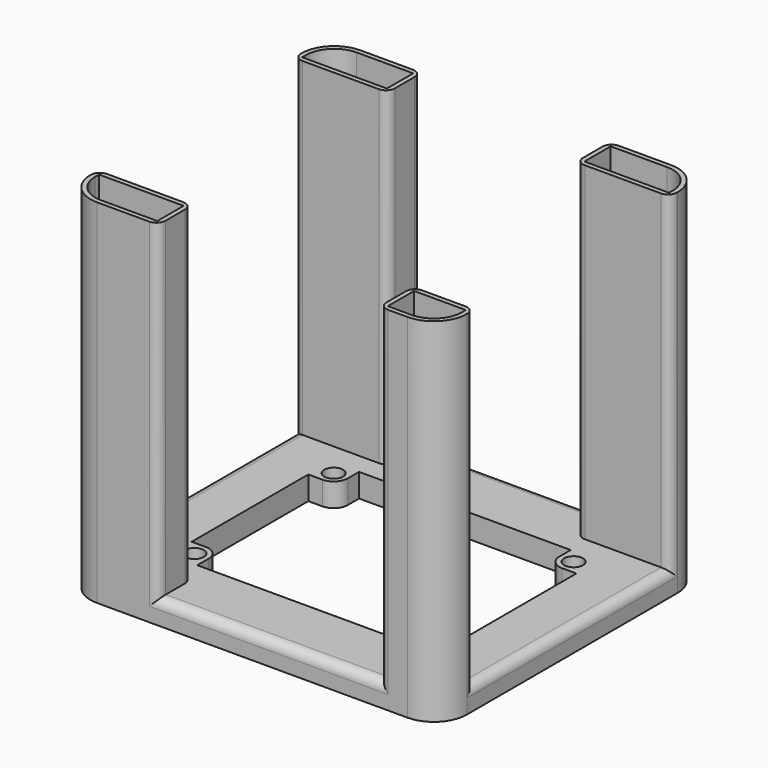
from build123d import *

# Parameters (mm, degrees)
SKETCH005_R     = 2
PAD003_DEPTH    = 5
PAD004_DEPTH    = 70
POCKET001_DEPTH = 70
FILLET017_R     = 2
FILLET018_R     = 1.9
FILLET019_R     = 1.9
FILLET020_R     = 1.9
FILLET021_R     = 1.89


with BuildPart() as part:
    # Sketch005 (on DatumPlane) → Pad003 (new body)
    with BuildSketch(Plane.XY.offset(58)):
        with BuildLine():
            Line((-33, 35), (33, 35))
            ThreePointArc((40, 28), (37.949747, 32.949747), (33, 35))
            Line((40, 28), (40, -28))
            ThreePointArc((33, -35), (37.949747, -32.949747), (40, -28))
            Line((33, -35), (-33, -35))
            ThreePointArc((-40, -28), (-37.949747, -32.949747), (-33, -35))
            Line((-40, -28), (-40, 28))
            ThreePointArc((-33, 35), (-37.949747, 32.949747), (-40, 28))
        make_face()
        with Locations((-25.5, 18.5)):
            Circle(SKETCH005_R, mode=Mode.SUBTRACT)
        with Locations((-25.5, -18.5)):
            Circle(SKETCH005_R, mode=Mode.SUBTRACT)
        with Locations((25.5, -18.5)):
            Circle(SKETCH005_R, mode=Mode.SUBTRACT)
        with Locations((25.5, 18.5)):
            Circle(SKETCH005_R, mode=Mode.SUBTRACT)
        with BuildLine():
            Line((28.5, 15.5), (28.5, -15.5))
            Line((25.5, -15.5), (28.5, -15.5))
            ThreePointArc((25.5, -15.5), (23.37868, -16.37868), (22.5, -18.5))
            Line((22.5, -18.5), (22.5, -21.5))
            Line((22.5, -21.5), (-22.5, -21.5))
            Line((-22.5, -18.5), (-22.5, -21.5))
            ThreePointArc((-22.5, -18.5), (-23.37868, -16.37868), (-25.5, -15.5))
            Line((-25.5, -15.5), (-28.5, -15.5))
            Line((-28.5, -15.5), (-28.5, 15.5))
            Line((-25.5, 15.5), (-28.5, 15.5))
            ThreePointArc((-25.5, 15.5), (-23.37868, 16.37868), (-22.5, 18.5))
            Line((-22.5, 18.5), (-22.5, 21.5))
            Line((-22.5, 21.5), (22.5, 21.5))
            Line((22.5, 21.5), (22.5, 18.5))
            ThreePointArc((22.5, 18.5), (23.37868, 16.37868), (25.5, 15.5))
            Line((25.5, 15.5), (28.5, 15.5))
        make_face(mode=Mode.SUBTRACT)
    extrude(amount=PAD003_DEPTH)

    # Sketch006 (on DatumPlane) → Pad004 (join)
    with BuildSketch(Plane.XY.offset(63)):
        with BuildLine():
            Line((20, 35), (33, 35))
            ThreePointArc((40, 28), (37.949747, 32.949747), (33, 35))
            Line((40, 28), (40, 26))
            Line((40, 26), (20, 26))
            Line((20, 26), (20, 35))
        make_face()
        with BuildLine():
            Line((-20, -26), (-40, -26))
            Line((-40, -26), (-40, -28))
            ThreePointArc((-40, -28), (-37.949747, -32.949747), (-33, -35))
            Line((-33, -35), (-20, -35))
            Line((-20, -35), (-20, -26))
        make_face()
        with BuildLine():
            Line((-20, 26), (-40, 26))
            Line((-40, 26), (-40, 28))
            ThreePointArc((-33, 35), (-37.949747, 32.949747), (-40, 28))
            Line((-33, 35), (-20, 35))
            Line((-20, 35), (-20, 26))
        make_face()
        with BuildLine():
            Line((27, -26), (40, -26))
            Line((40, -26), (40, -28))
            ThreePointArc((33, -35), (37.949747, -32.949747), (40, -28))
            Line((33, -35), (27, -35))
            Line((27, -35), (27, -26))
        make_face()
    extrude(amount=PAD004_DEPTH)

    # Sketch007 (on DatumPlane) → Pocket001 (cut)
    with BuildSketch(Plane.XY.offset(133)):
        with BuildLine():
            Line((21, 34), (33, 34))
            ThreePointArc((39, 28), (37.242641, 32.242641), (33, 34))
            Line((39, 28), (39, 27))
            Line((39, 27), (21, 27))
            Line((21, 27), (21, 34))
        make_face()
        with BuildLine():
            Line((-21, -27), (-39, -27))
            Line((-39, -27), (-39, -28))
            ThreePointArc((-39, -28), (-37.242641, -32.242641), (-33, -34))
            Line((-33, -34), (-21, -34))
            Line((-21, -34), (-21, -27))
        make_face()
        with BuildLine():
            Line((-21, 27), (-39, 27))
            Line((-39, 27), (-39, 28))
            ThreePointArc((-33, 34), (-37.242641, 32.242641), (-39, 28))
            Line((-33, 34), (-21, 34))
            Line((-21, 34), (-21, 27))
        make_face()
        with BuildLine():
            Line((28, -27), (39, -27))
            Line((39, -27), (39, -28))
            ThreePointArc((33, -34), (37.242641, -32.242641), (39, -28))
            Line((33, -34), (28, -34))
            Line((28, -34), (28, -27))
        make_face()
    extrude(amount=-POCKET001_DEPTH, mode=Mode.SUBTRACT)

    # Fillet017
    fillet017_edges = [part.edges().sort_by_distance(p)[0] for p in [
        (3.5, -35, 63),
    ]]
    fillet(fillet017_edges, radius=FILLET017_R)

    # Fillet018
    fillet018_edges = [part.edges().sort_by_distance(p)[0] for p in [
        (-20, -35, 98),
        (-20, -26, 98),
        (27, -35, 98),
        (27, -26, 98),
        (-40, -26, 98),
        (40, -26, 98),
    ]]
    fillet(fillet018_edges, radius=FILLET018_R)

    # Fillet019
    fillet019_edges = [part.edges().sort_by_distance(p)[0] for p in [
        (40, 0, 63),
        (-40, 0, 63),
    ]]
    fillet(fillet019_edges, radius=FILLET019_R)

    # Fillet020
    fillet020_edges = [part.edges().sort_by_distance(p)[0] for p in [
        (0, 35, 63),
    ]]
    fillet(fillet020_edges, radius=FILLET020_R)

    # Fillet021
    fillet021_edges = [part.edges().sort_by_distance(p)[0] for p in [
        (-40, 26, 98),
        (-20, 35, 98),
        (20, 35, 98),
        (20, 26, 98),
        (-20, 26, 98),
        (40, 26, 98),
    ]]
    fillet(fillet021_edges, radius=FILLET021_R)


solid = part.part
